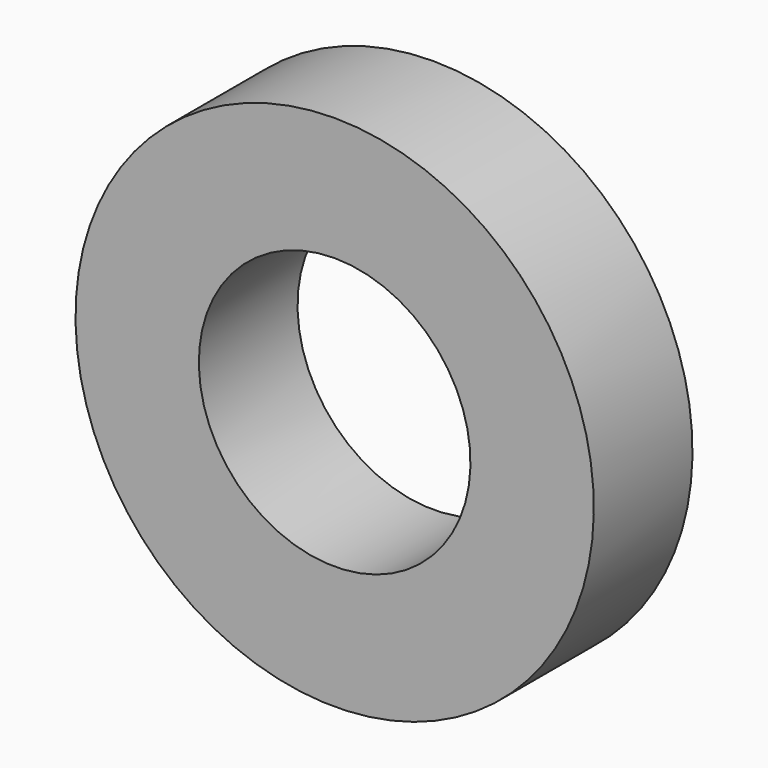
from build123d import *

# Parameters (mm, degrees)
F0_W = 31.75
F0_H = 31.75


with BuildPart() as f2:
    # F0 (on Right) → F2 (revolve)
    with BuildSketch(Plane.YZ):
        Rectangle(F0_W, F0_H)
    revolve(axis=Axis((0, 0.300789, -50.833423), (0, 1, 0)))


solid = f2.part
